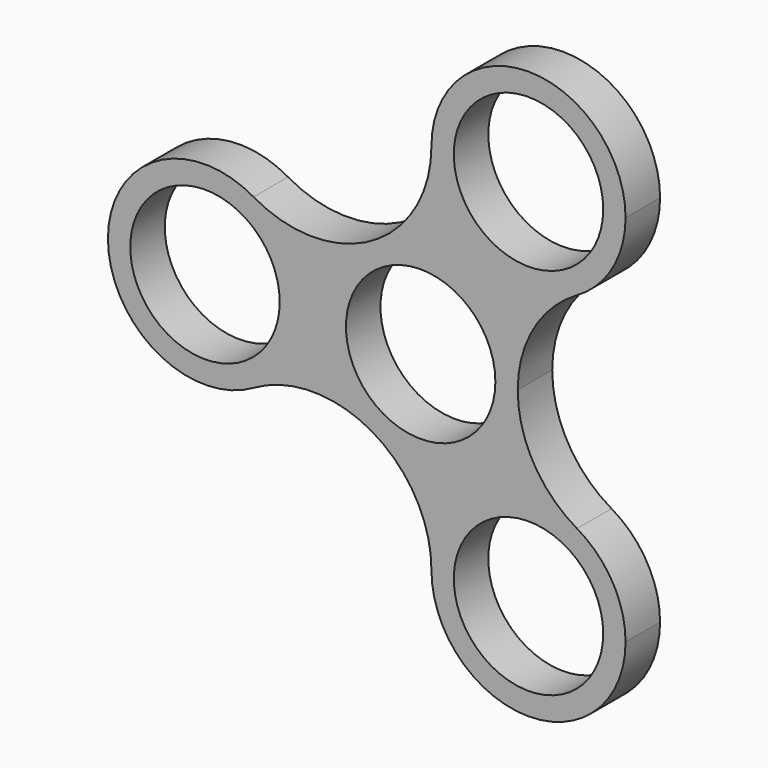
from build123d import *

# Parameters (mm, degrees)
F0_R     = 10.9982
F1_DEPTH = 6.35


with BuildPart() as f1:
    # F0 (on Front) → F1 (new body)
    with BuildSketch(Plane.XZ):
        with BuildLine():
            ThreePointArc((-7.1437498937, -12.3733380179), (7.1437500531, -12.3733379259), (14.2875, 0))
            ThreePointArc((14.2875, 0), (7.1437499995, 12.3733379569), (-7.143750001, 12.373337956))
            ThreePointArc((-7.143750001, 12.373337956), (-14.2875, -6.19e-08), (-7.1437498937, -12.3733380179))
        make_face()
        Circle(F0_R, mode=Mode.SUBTRACT)
        with BuildLine():
            ThreePointArc((23.01875, -15.1229686136), (16.6270313864, -8.73125), (14.2875, 0))
            ThreePointArc((14.2875, 0), (7.1437500531, -12.3733379259), (-7.1437498937, -12.3733380179))
            ThreePointArc((-7.1437498937, -12.3733380179), (-0.7520313557, -18.7650566233), (1.5875, -27.4963065702))
            ThreePointArc((1.5875, -27.4963065702), (8.73125, -15.1229686136), (23.01875, -15.1229686136))
        make_face()
        with BuildLine():
            ThreePointArc((-7.143750001, 12.373337956), (7.1437499995, 12.3733379569), (14.2875, 0))
            ThreePointArc((14.2875, 0), (16.6270313864, 8.73125), (23.01875, 15.1229686136))
            ThreePointArc((23.01875, 15.1229686136), (8.73125, 15.1229686136), (1.5875, 27.4963065702))
            ThreePointArc((1.5875, 27.4963065702), (-0.7520313867, 18.7650565696), (-7.143750001, 12.373337956))
        make_face()
        with BuildLine():
            ThreePointArc((-7.1437498937, -12.3733380179), (-14.2875, -6.19e-08), (-7.143750001, 12.373337956))
            ThreePointArc((-7.143750001, 12.373337956), (-15.8750000006, 10.0338065702), (-24.60625, 12.3733379566))
            ThreePointArc((-24.60625, 12.3733379566), (-19.3766620434, 7.14375), (-17.4625, 0))
            ThreePointArc((-17.4625, 0), (-19.3766620434, -7.14375), (-24.60625, -12.3733379566))
            ThreePointArc((-24.60625, -12.3733379566), (-15.8749999387, -10.0338065702), (-7.1437498937, -12.3733380179))
        make_face()
        with BuildLine():
            ThreePointArc((1.5875, 27.4963065702), (8.73125, 15.1229686136), (23.01875, 15.1229686136))
            ThreePointArc((23.01875, 15.1229686136), (28.2483379566, 20.3525565702), (30.1625, 27.4963065702))
            ThreePointArc((30.1625, 27.4963065702), (15.875, 41.7838065702), (1.5875, 27.4963065702))
        make_face()
        with Locations((15.875, 27.4963065702)):
            Circle(F0_R, mode=Mode.SUBTRACT)
        with BuildLine():
            ThreePointArc((30.1625, -27.4963065702), (28.2483379566, -20.3525565702), (23.01875, -15.1229686136))
            ThreePointArc((23.01875, -15.1229686136), (8.73125, -15.1229686136), (1.5875, -27.4963065702))
            ThreePointArc((1.5875, -27.4963065702), (15.875, -41.7838065702), (30.1625, -27.4963065702))
        make_face()
        with Locations((15.875, -27.4963065702)):
            Circle(F0_R, mode=Mode.SUBTRACT)
        with BuildLine():
            ThreePointArc((-17.4625, 0), (-19.3766620434, 7.14375), (-24.60625, 12.3733379566))
            ThreePointArc((-24.60625, 12.3733379566), (-46.0375, 0), (-24.60625, -12.3733379566))
            ThreePointArc((-24.60625, -12.3733379566), (-19.3766620434, -7.14375), (-17.4625, 0))
        make_face()
        with Locations((-31.75, 0)):
            Circle(F0_R, mode=Mode.SUBTRACT)
    extrude(amount=F1_DEPTH)


solid = f1.part
